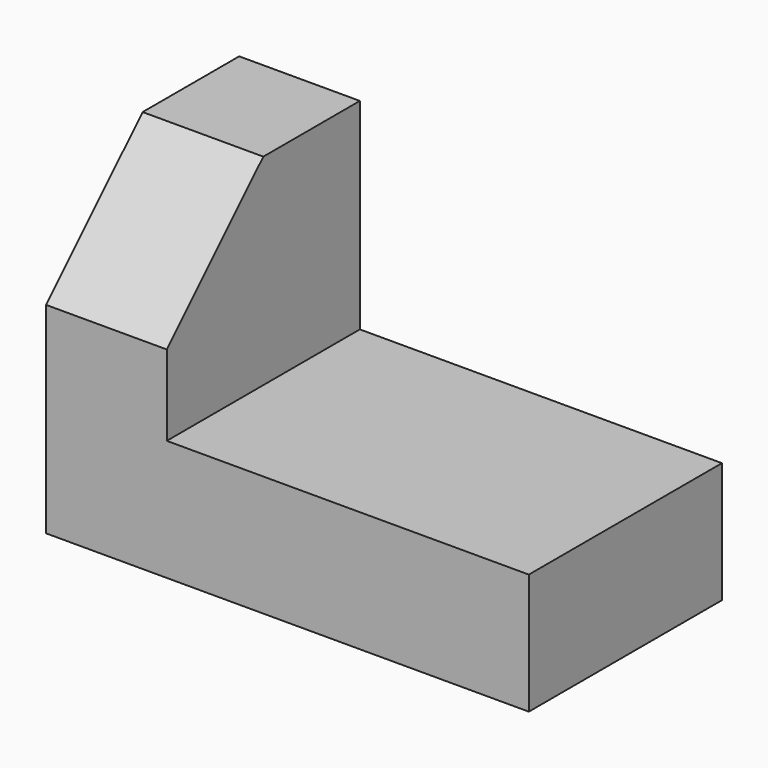
from build123d import *

# Parameters (mm, degrees)
F1_DEPTH = 76.2
F3_DEPTH = 38.101


with BuildPart() as f1:
    # F0 (on Front) → F1 (new body)
    with BuildSketch(Plane.XZ):
        Polygon((0, 101.6), (0, 0), (152.4, 0), (152.4, 38.1), (38.1, 38.1), (38.1, 101.6), align=None)
    extrude(amount=F1_DEPTH)

    # F2 (on face) → F3 (cut, through all)
    with BuildSketch(Plane.YZ.offset(38.1)):
        Polygon((-76.2, 63.5), (-38.1, 101.6), (-76.2, 101.6), align=None)
    extrude(amount=-F3_DEPTH, mode=Mode.SUBTRACT)


solid = f1.part
